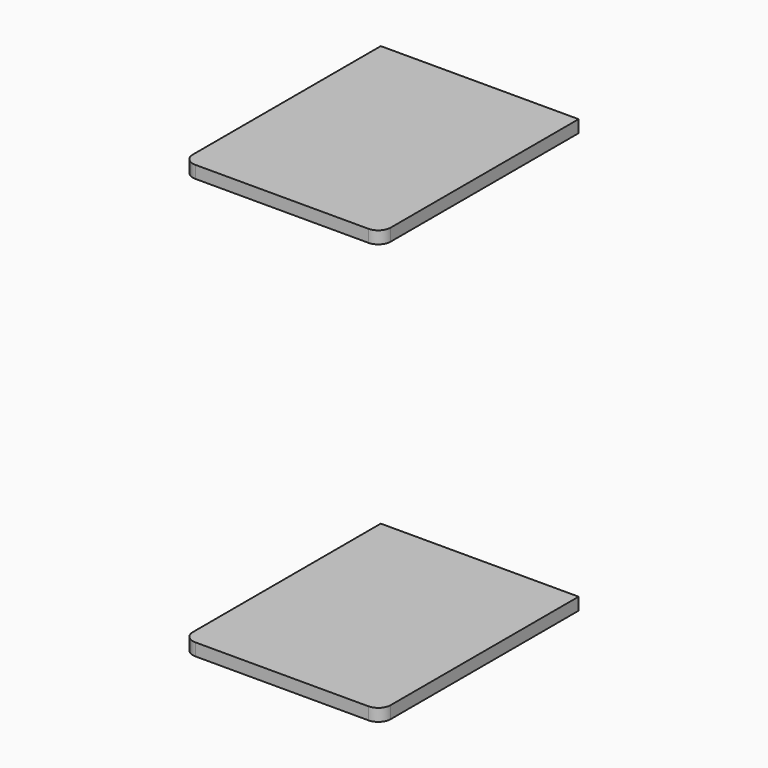
from build123d import *

# Parameters (mm, degrees)
F0_W     = 50.8
F0_H     = 3.175
F1_DEPTH = 63.5
F2_R     = 3.175
F3_R     = 3.175


with BuildPart() as f1:
    # F0 (on Front) → F1 (new body)
    with BuildSketch(Plane.XZ):
        with Locations((-46.870719, -1.5875)):
            Rectangle(F0_W, F0_H)
    extrude(amount=F1_DEPTH)

    # F2
    f2_edges = [f1.edges().sort_by_distance(p)[0] for p in [
        (-21.470719, -63.5, -1.5875),
    ]]
    fillet(f2_edges, radius=F2_R)

    # F3
    f3_edges = [f1.edges().sort_by_distance(p)[0] for p in [
        (-72.270719, -63.5, -1.5875),
    ]]
    fillet(f3_edges, radius=F3_R)


with BuildPart() as f4_1:
    # F4: copy of F1
    add(f1.part.moved(Location((76.2, 0, 0))))


with BuildPart() as f5_1:
    # F5: copy of F4_1
    add(f4_1.part.moved(Location((76.2, 0, 0))))


with BuildPart() as f6_1:
    # F6: copy of F5_1
    add(f5_1.part.moved(Location((76.2, 0, 0))))


with BuildPart() as f7_1:
    # F7: copy of F6_1
    add(f6_1.part.moved(Location((76.2, 0, 0))))


with BuildPart() as f8_1:
    # F8: copy of F1
    add(f1.part.moved(Location((0, 0, 104.775))))


with BuildPart() as f8_2:
    # F8: copy of F4_1
    add(f4_1.part.moved(Location((0, 0, 104.775))))


with BuildPart() as f8_3:
    # F8: copy of F5_1
    add(f5_1.part.moved(Location((0, 0, 104.775))))


with BuildPart() as f8_4:
    # F8: copy of F6_1
    add(f6_1.part.moved(Location((0, 0, 104.775))))


with BuildPart() as f8_5:
    # F8: copy of F7_1
    add(f7_1.part.moved(Location((0, 0, 104.775))))


with BuildPart() as f9_1:
    # F9: copy of F8_1
    add(f8_1.part.moved(Location((0, 0, 127))))


with BuildPart() as f9_2:
    # F9: copy of F8_2
    add(f8_2.part.moved(Location((0, 0, 127))))


with BuildPart() as f9_3:
    # F9: copy of F8_4
    add(f8_4.part.moved(Location((0, 0, 127))))


with BuildPart() as f9_4:
    # F9: copy of F8_5
    add(f8_5.part.moved(Location((0, 0, 127))))


with BuildPart() as f9_5:
    # F9: copy of F8_3
    add(f8_3.part.moved(Location((0, 0, 127))))


with BuildPart() as f10_1:
    # F10: copy of F9_1
    add(f9_1.part.moved(Location((0, 0, 104.775))))


with BuildPart() as f10_2:
    # F10: copy of F9_2
    add(f9_2.part.moved(Location((0, 0, 104.775))))


with BuildPart() as f10_3:
    # F10: copy of F9_5
    add(f9_5.part.moved(Location((0, 0, 104.775))))


with BuildPart() as f10_4:
    # F10: copy of F9_3
    add(f9_3.part.moved(Location((0, 0, 104.775))))


with BuildPart() as f10_5:
    # F10: copy of F9_4
    add(f9_4.part.moved(Location((0, 0, 104.775))))


with BuildPart() as f11_1:
    # F11: copy of F10_1
    add(f10_1.part.moved(Location((0, 0, 104.775))))


with BuildPart() as f11_2:
    # F11: copy of F10_2
    add(f10_2.part.moved(Location((0, 0, 104.775))))


with BuildPart() as f11_3:
    # F11: copy of F10_3
    add(f10_3.part.moved(Location((0, 0, 104.775))))


with BuildPart() as f11_4:
    # F11: copy of F10_4
    add(f10_4.part.moved(Location((0, 0, 104.775))))


with BuildPart() as f11_5:
    # F11: copy of F10_5
    add(f10_5.part.moved(Location((0, 0, 104.775))))


with BuildPart() as f10_5_1:
    # F12: moved
    add(f10_5.part.moved(Location((0, 0, -3.175))))


with BuildPart() as f10_4_1:
    # F12: moved
    add(f10_4.part.moved(Location((0, 0, -3.175))))


with BuildPart() as f10_3_1:
    # F12: moved
    add(f10_3.part.moved(Location((0, 0, -3.175))))


with BuildPart() as f10_2_1:
    # F12: moved
    add(f10_2.part.moved(Location((0, 0, -3.175))))


with BuildPart() as f10_1_1:
    # F12: moved
    add(f10_1.part.moved(Location((0, 0, -3.175))))


with BuildPart() as f9_1_1:
    # F12: moved
    add(f9_1.part.moved(Location((0, 0, -3.175))))


with BuildPart() as f9_2_1:
    # F12: moved
    add(f9_2.part.moved(Location((0, 0, -3.175))))


with BuildPart() as f9_3_1:
    # F12: moved
    add(f9_3.part.moved(Location((0, 0, -3.175))))


with BuildPart() as f9_4_1:
    # F12: moved
    add(f9_4.part.moved(Location((0, 0, -3.175))))


with BuildPart() as f9_5_1:
    # F12: moved
    add(f9_5.part.moved(Location((0, 0, -3.175))))


with BuildPart() as f14_1:
    # F14: copy of F1
    add(f1.part.moved(Location((0, 0, 53.975))))


with BuildPart() as f14_2:
    # F14: copy of F7_1
    add(f7_1.part.moved(Location((0, 0, 53.975))))


with BuildPart() as f14_3:
    # F14: copy of F6_1
    add(f6_1.part.moved(Location((0, 0, 53.975))))


with BuildPart() as f14_4:
    # F14: copy of F5_1
    add(f5_1.part.moved(Location((0, 0, 53.975))))


with BuildPart() as f14_5:
    # F14: copy of F4_1
    add(f4_1.part.moved(Location((0, 0, 53.975))))


with BuildPart() as f15_1:
    # F15: copy of F14_1
    add(f14_1.part.moved(Location((0, 0, 53.975))))


with BuildPart() as f15_2:
    # F15: copy of F14_2
    add(f14_2.part.moved(Location((0, 0, 53.975))))


with BuildPart() as f15_3:
    # F15: copy of F14_3
    add(f14_3.part.moved(Location((0, 0, 53.975))))


with BuildPart() as f15_4:
    # F15: copy of F14_4
    add(f14_4.part.moved(Location((0, 0, 53.975))))


with BuildPart() as f15_5:
    # F15: copy of F14_5
    add(f14_5.part.moved(Location((0, 0, 53.975))))


with BuildPart() as f16_1:
    # F16: copy of F15_1
    add(f15_1.part.moved(Location((0, 0, 53.975))))


with BuildPart() as f16_2:
    # F16: copy of F15_5
    add(f15_5.part.moved(Location((0, 0, 53.975))))


with BuildPart() as f16_3:
    # F16: copy of F15_4
    add(f15_4.part.moved(Location((0, 0, 53.975))))


with BuildPart() as f16_4:
    # F16: copy of F15_3
    add(f15_3.part.moved(Location((0, 0, 53.975))))


with BuildPart() as f16_5:
    # F16: copy of F15_2
    add(f15_2.part.moved(Location((0, 0, 53.975))))


with BuildPart() as f17_1:
    # F17: copy of F16_1
    add(f16_1.part.moved(Location((0, 0, 53.975))))


with BuildPart() as f17_2:
    # F17: copy of F16_2
    add(f16_2.part.moved(Location((0, 0, 53.975))))


with BuildPart() as f17_3:
    # F17: copy of F16_3
    add(f16_3.part.moved(Location((0, 0, 53.975))))


with BuildPart() as f17_4:
    # F17: copy of F16_5
    add(f16_5.part.moved(Location((0, 0, 53.975))))


with BuildPart() as f17_5:
    # F17: copy of F16_4
    add(f16_4.part.moved(Location((0, 0, 53.975))))


solid = Compound([f4_1.part, f15_5.part])
